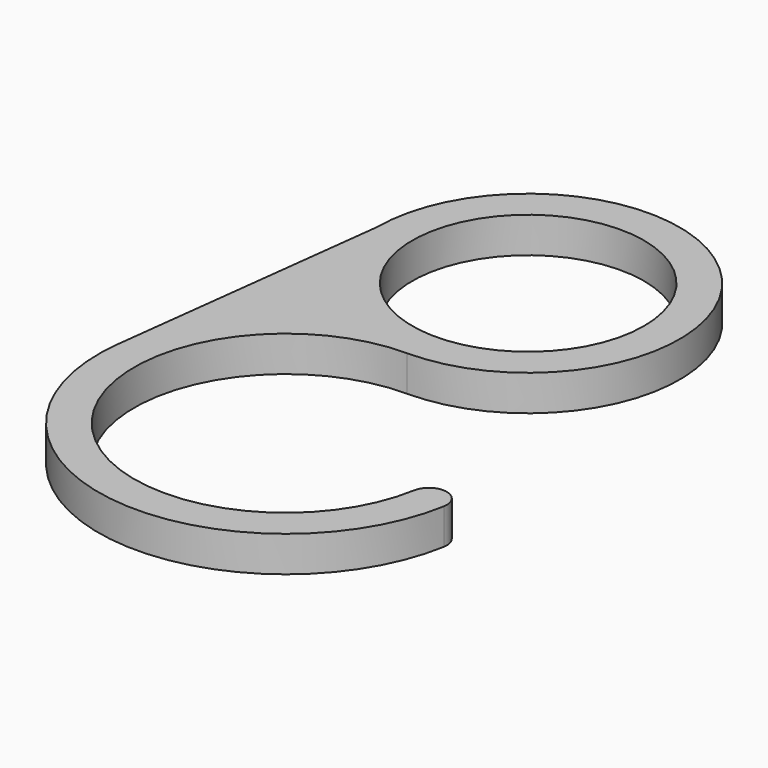
from build123d import *

# Parameters (mm, degrees)
F0_R     = 13
F1_DEPTH = 4


with BuildPart() as f1:
    # F0 (on Top) → F1 (new body)
    with BuildSketch(Plane.XY):
        with BuildLine():
            ThreePointArc((16.741732, -14.638123), (-13.022756, -22.613494), (0, 5.313896))
            ThreePointArc((0, 5.313896), (12.020815, 34.334711), (-17, 22.313896))
            Line((-17, 22.313896), (-20.844827, -9.13793))
            ThreePointArc((-20.844827, -9.13793), (-3.098477, -32.456262), (20.680963, -15.332716))
            Line((20.680963, -15.332716), (18.711347, -14.98542))
            Line((18.711347, -14.98542), (16.741732, -14.638123))
        make_face()
        with Locations((0, 22.313896)):
            Circle(F0_R, mode=Mode.SUBTRACT)
        with BuildLine():
            ThreePointArc((20.680963, -15.332716), (19.058644, -13.015804), (16.741732, -14.638123))
            Line((16.741732, -14.638123), (18.711347, -14.98542))
            Line((18.711347, -14.98542), (20.680963, -15.332716))
        make_face()
    extrude(amount=F1_DEPTH)


solid = f1.part
